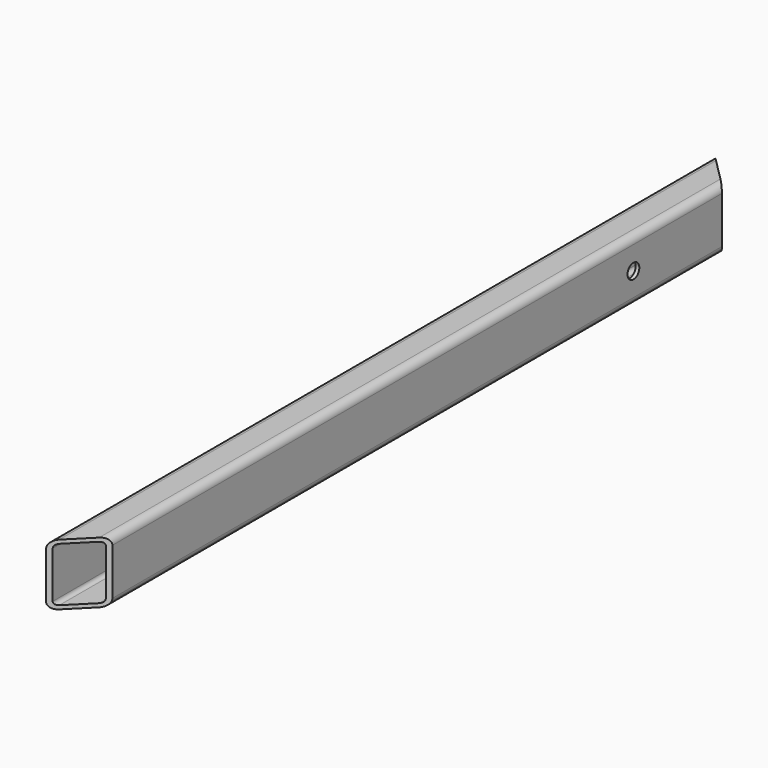
from build123d import *

# Parameters (mm, degrees)
F1_DEPTH = 340
F3_DEPTH = 50
F5_D     = 12


with BuildPart() as f1:
    # F0 (on Front) → F1 (new body, symmetric)
    with BuildSketch(Plane.XZ):
        with BuildLine():
            ThreePointArc((15, 19), (13.2426406871, 23.2426406871), (9, 25))
            Line((9, 25), (-9, 25))
            ThreePointArc((-9, 25), (-13.2426406871, 23.2426406871), (-15, 19))
            Line((-15, 19), (-15, -19))
            ThreePointArc((-15, -19), (-13.2426406871, -23.2426406871), (-9, -25))
            Line((-9, -25), (9, -25))
            ThreePointArc((9, -25), (13.2426406871, -23.2426406871), (15, -19))
            Line((15, -19), (15, 19))
        make_face()
        with BuildLine():
            Line((-9, 22), (9, 22))
            ThreePointArc((9, 22), (11.1213203436, 21.1213203436), (12, 19))
            Line((12, 19), (12, -19))
            ThreePointArc((12, -19), (11.1213203436, -21.1213203436), (9, -22))
            Line((9, -22), (-9, -22))
            ThreePointArc((-9, -22), (-11.1213203436, -21.1213203436), (-12, -19))
            Line((-12, -19), (-12, 19))
            ThreePointArc((-12, 19), (-11.1213203436, 21.1213203436), (-9, 22))
        make_face(mode=Mode.SUBTRACT)
    extrude(amount=F1_DEPTH, both=True)

    # F2 (on face) → F3 (cut, through all)
    with BuildSketch(Plane.XY.offset(25)):
        Polygon((-9, -340), (-9, -334), (-15, -340), align=None)
        Polygon((9, -340), (9, -316), (-9, -334), (-9, -340), align=None)
        Polygon((15, -310), (9, -316), (9, -340), (15, -340), align=None)
        Polygon((-15, 340), (-9, 334), (-9, 340), align=None)
        Polygon((-9, 334), (9, 316), (9, 340), (-9, 340), align=None)
        Polygon((9, 316), (15, 310), (15, 340), (9, 340), align=None)
    extrude(amount=-F3_DEPTH, mode=Mode.SUBTRACT)

    # F5 (through all)
    with Locations(Plane(origin=(-15, 0, 0), x_dir=(0, -1, 0), z_dir=(-1, 0, 0))):
        with Locations((-220, 0)):
            Hole(F5_D / 2)


solid = f1.part
